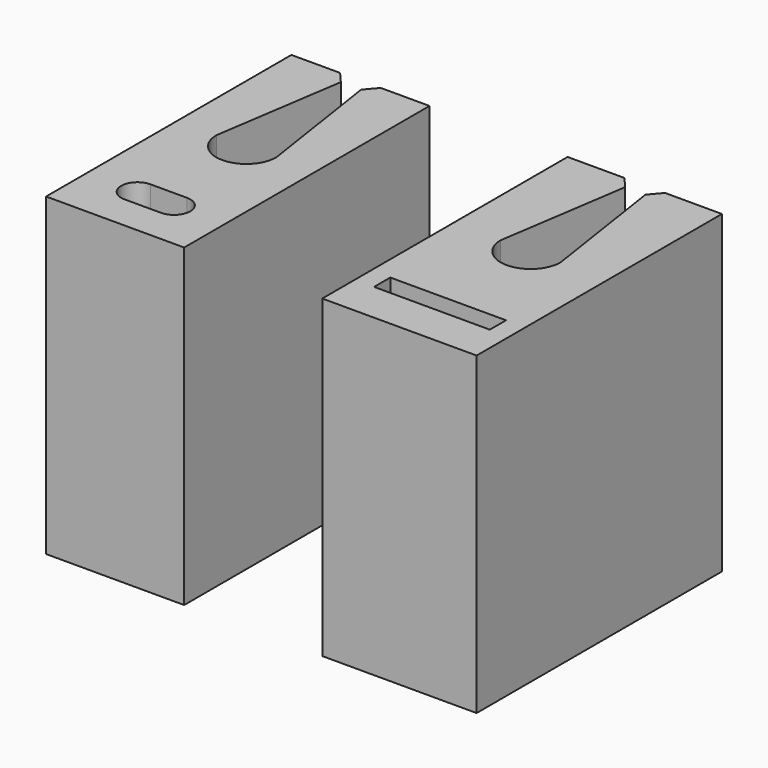
from build123d import *

# Parameters (mm, degrees)
PAD_DEPTH     = 15.5
SKETCH001_W   = 6.8
SKETCH001_H   = 5
PAD001_DEPTH  = 15.5
PAD002_DEPTH  = 15.5
SKETCH003_W   = 7.6
SKETCH003_H   = 5
SKETCH003_W_2 = 5.7
SKETCH003_H_2 = 1
PAD003_DEPTH  = 15.5


with BuildPart() as body:
    # Sketch → Pad (new body)
    with BuildSketch(Plane.XY):
        with BuildLine():
            Line((-3.4, 0), (-3.4, -10.1))
            Line((-3.4, -10.1), (3.4, -10.1))
            Line((3.4, -10.1), (3.4, 0))
            Line((3.4, 0), (1, 0))
            Line((1, 0), (0.5, -0.581347))
            Line((1.475, -7.025), (0.5, -0.581347))
            ThreePointArc((-1.475, -7.025), (0, -8.5), (1.475, -7.025))
            Line((-1.475, -7.025), (-0.5, -0.581347))
            Line((-0.5, -0.581347), (-1, 0))
            Line((-1, 0), (-3.4, 0))
        make_face()
    extrude(amount=PAD_DEPTH)

    # Sketch001 → Pad001 (join)
    with BuildSketch(Plane.XY):
        with Locations((0, -12.6)):
            Rectangle(SKETCH001_W, SKETCH001_H)
        with BuildLine():
            ThreePointArc((-0.9, -11.8), (-1.7, -12.6), (-0.9, -13.4))
            Line((0.9, -13.4), (-0.9, -13.4))
            ThreePointArc((0.9, -13.4), (1.7, -12.6), (0.9, -11.8))
            Line((-0.9, -11.8), (0.9, -11.8))
        make_face(mode=Mode.SUBTRACT)
    extrude(amount=PAD001_DEPTH)


with BuildPart() as body001:
    # Sketch002 → Pad002 (new body)
    with BuildSketch(Plane.XY):
        with BuildLine():
            Line((-3.8, 0), (-3.8, -10.1))
            Line((-3.8, -10.1), (3.8, -10.1))
            Line((3.8, -10.1), (3.8, 0))
            Line((3.8, 0), (1, 0))
            Line((1, 0), (0.5, -0.581347))
            Line((1.475, -7.025), (0.5, -0.581347))
            ThreePointArc((-1.475, -7.025), (0, -8.5), (1.475, -7.025))
            Line((-1.475, -7.025), (-0.5, -0.581347))
            Line((-0.5, -0.581347), (-1, 0))
            Line((-1, 0), (-3.8, 0))
        make_face()
    extrude(amount=PAD002_DEPTH)

    # Sketch003 → Pad003 (join)
    with BuildSketch(Plane.XY):
        with Locations((0, -12.6)):
            Rectangle(SKETCH003_W, SKETCH003_H)
        with Locations((0, -12.6)):
            Rectangle(SKETCH003_W_2, SKETCH003_H_2, mode=Mode.SUBTRACT)
    extrude(amount=PAD003_DEPTH)


with BuildPart() as body001_1:
    # Body001 placement: moved
    add(body001.part.moved(Location((14, 0, 0))))


solid = Compound([body.part, body001_1.part])
